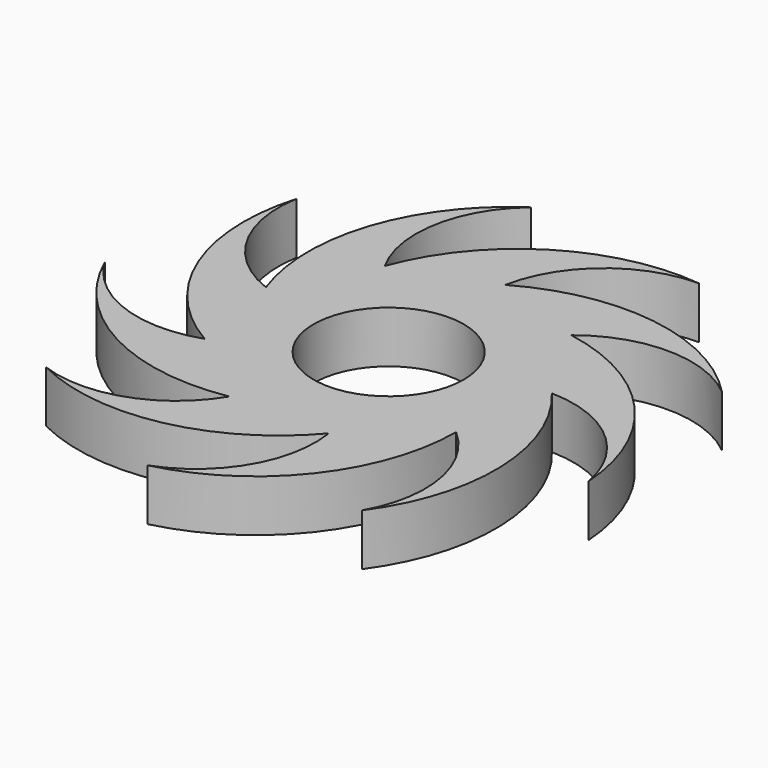
from build123d import *

# Parameters (mm, degrees)
F0_R     = 11.049
F1_DEPTH = 7.62


with BuildPart() as f1:
    # F0 (on Top) → F1 (new body)
    with BuildSketch(Plane.XY):
        with BuildLine():
            ThreePointArc((0.039662, 21.40109), (6.089549, 31.577889), (17.220307, 35.612065))
            ThreePointArc((17.220307, 35.612065), (-1.561389, 31.350671), (-13.725973, 16.41968))
            ThreePointArc((-13.725973, 16.41968), (-15.633011, 28.104353), (-9.699474, 38.349425))
            ThreePointArc((-9.699474, 38.349425), (-21.347916, 23.012366), (-21.069072, 3.755319))
            ThreePointArc((-21.069072, 3.755319), (-30.040711, 11.480478), (-32.080763, 23.142662))
            ThreePointArc((-32.080763, 23.142662), (-31.145516, 3.906319), (-18.553719, -10.666197))
            ThreePointArc((-18.553719, -10.666197), (-30.392028, -10.51524), (-39.451107, -2.892809))
            ThreePointArc((-39.451107, -2.892809), (-26.369783, -17.027538), (-7.356874, -20.096881))
            ThreePointArc((-7.356874, -20.096881), (-16.522578, -27.590761), (-28.361839, -27.574703))
            ThreePointArc((-28.361839, -27.574703), (-9.255335, -29.994021), (7.282334, -20.124012))
            ThreePointArc((7.282334, -20.124012), (5.07797, -31.756257), (-4.001752, -39.354087))
            ThreePointArc((-4.001752, -39.354087), (12.189787, -28.925968), (18.514057, -10.734893))
            ThreePointArc((18.514057, -10.734893), (24.302479, -21.062648), (22.2308, -32.719256))
            ThreePointArc((22.2308, -32.719256), (27.931172, -14.323133), (21.082847, 3.677201))
            ThreePointArc((21.082847, 3.677201), (32.155589, -0.513592), (38.061313, -10.774722))
            ThreePointArc((38.061313, -10.774722), (30.603252, 6.981655), (13.786738, 16.368692))
            ThreePointArc((13.786738, 16.368692), (24.962741, 20.27578), (36.082515, 16.211425))
            ThreePointArc((36.082515, 16.211425), (18.95573, 25.019649), (0.039662, 21.40109))
        make_face()
        Circle(F0_R, mode=Mode.SUBTRACT)
    extrude(amount=F1_DEPTH)


solid = f1.part
